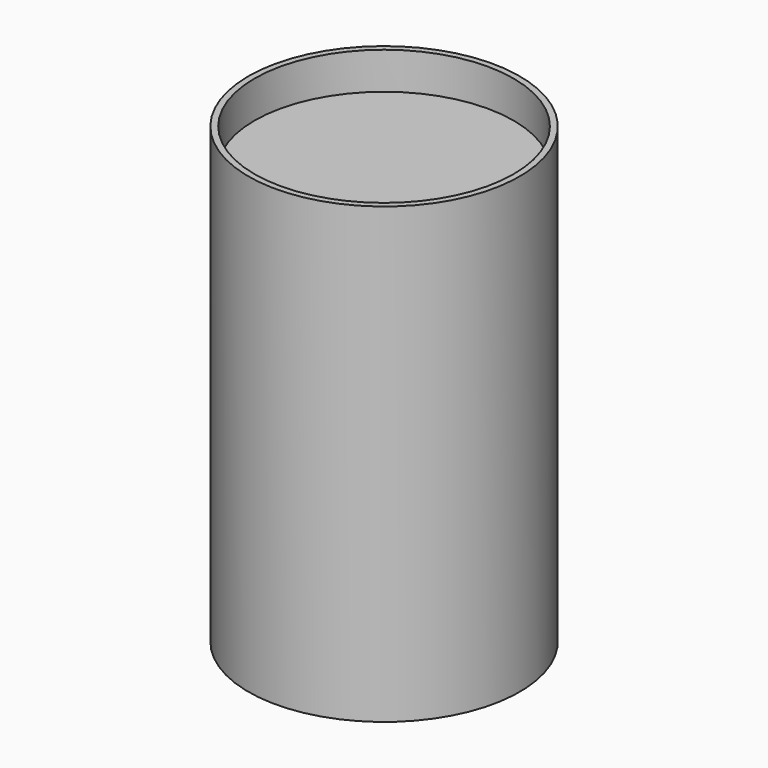
from build123d import *

# Parameters (mm, degrees)
F0_W   = 2.1932262462
F0_H   = 4.2402818799
F0_W_2 = 14.8409642279


with BuildPart() as f1:
    # F0 (on Front) → F1 (revolve)
    with BuildSketch(Plane.XZ):
        with Locations((-1.0966131231, 68.7406174839)):
            Rectangle(F0_W, F0_H)
        Polygon((-2.1932262462, 66.6204765439), (-2.1932262462, 70.8607584238), (-38.1940454245, 70.8607584238), (-38.1940454245, 66.6204765439), (-24.1481289268, 66.6204765439), (-19.642835483, 66.6204765439), align=None)
        with Locations((-45.6145275384, 68.7406174839)):
            Rectangle(F0_W_2, F0_H)
        Polygon((-53.0350096524, 66.6204765439), (-53.0350096524, 70.8607584238), (-53.0350096524, 86.0186740756), (-55.5492453277, 86.0186740756), (-55.5492453277, -99.7839570045), (-53.0350096524, -99.7839570045), (-53.0350096524, -78.2906860113), (-53.0350096524, -73.8386586308), (-53.0350096524, -69.2957043648), align=None)
        Polygon((-19.642835483, -73.8386586308), (-19.642835483, 66.6204765439), (-24.1481289268, 66.6204765439), (-24.1481289268, -69.2957043648), (-24.1481289268, -73.8386586308), align=None)
        Polygon((-19.642835483, -78.2906860113), (-19.642835483, -73.8386586308), (-24.1481289268, -73.8386586308), (-53.0350096524, -73.8386586308), (-53.0350096524, -78.2906860113), align=None)
    revolve(axis=Axis((0, 0, 68.7406174839), (0, 0, 1)))


solid = f1.part
